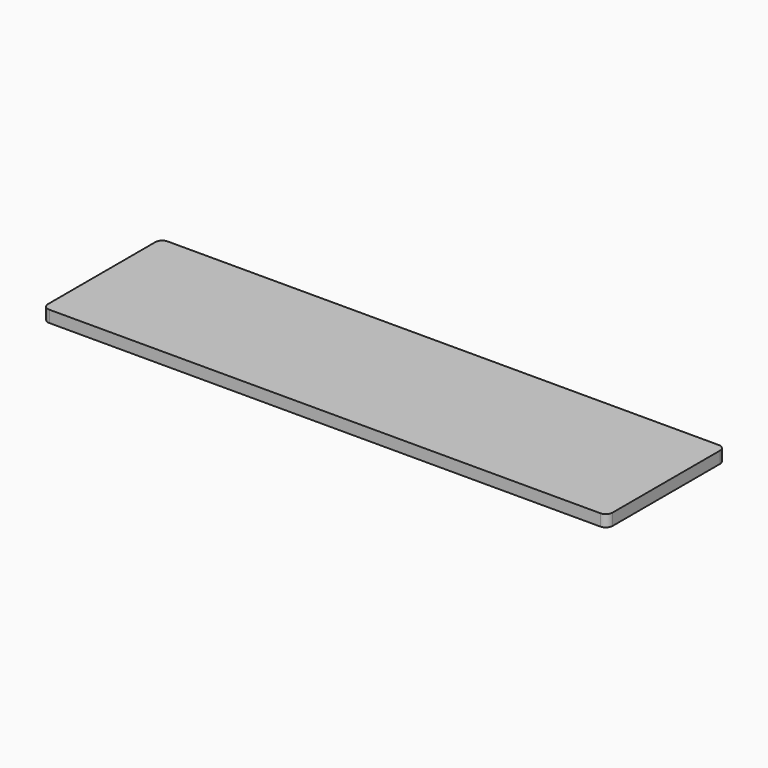
from build123d import *

# Parameters (mm, degrees)
F0_W     = 2133.6
F0_H     = 558.8
F1_DEPTH = 22.225
F2_R     = 25.4


with BuildPart() as f1:
    # F0 (on Top) → F1 (new body, symmetric)
    with BuildSketch(Plane.XY):
        Rectangle(F0_W, F0_H)
    extrude(amount=F1_DEPTH, both=True)

    # F2
    f2_edges = [f1.edges().sort_by_distance(p)[0] for p in [
        (1066.8, -279.4, 0),
        (1066.8, 279.4, 0),
        (-1066.8, -279.4, 0),
        (-1066.8, 279.4, 0),
    ]]
    fillet(f2_edges, radius=F2_R)


solid = f1.part
